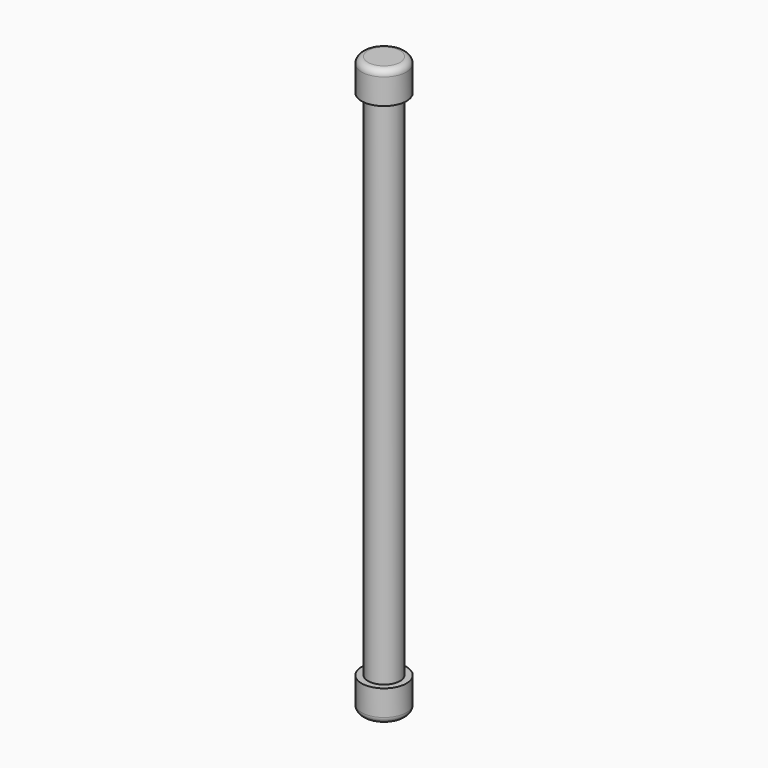
from build123d import *

# Parameters (mm, degrees)
F0_R     = 2.38125
F1_DEPTH = 76.2
F2_R     = 3.33375
F3_DEPTH = 4.7625
F4_R     = 3.33375
F5_DEPTH = 4.7625
F6_R     = 0.9525


with BuildPart() as f1:
    # F0 (on Top) → F1 (new body)
    with BuildSketch(Plane.XY):
        Circle(F0_R)
    extrude(amount=F1_DEPTH)

    # F2 (on face) → F3 (join)
    with BuildSketch(Plane.XY.offset(76.2)):
        Circle(F2_R)
    extrude(amount=F3_DEPTH)

    # F4 (on face) → F5 (join)
    with BuildSketch(Plane(origin=(0, 0, 0), x_dir=(1, 0, 0), z_dir=(0, 0, -1))):
        Circle(F4_R)
    extrude(amount=F5_DEPTH)

    # F6
    f6_edges = [f1.edges().sort_by_distance(p)[0] for p in [
        (-3.33375, 0, 80.9625),
        (-3.33375, 0, -4.7625),
    ]]
    fillet(f6_edges, radius=F6_R)


solid = f1.part
